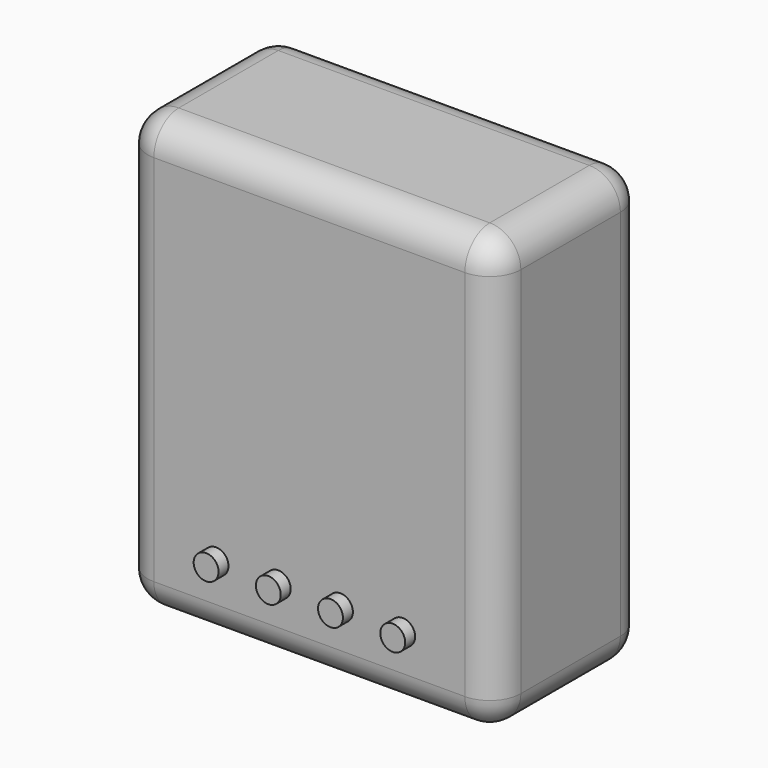
from build123d import *

# Parameters (mm, degrees)
F0_W     = 60
F0_H     = 70
F0_R     = 2
F1_DEPTH = 30
F2_DEPTH = 32
F3_R     = 5


with BuildPart() as f1:
    # F0 (on Front) → F1 (new body)
    with BuildSketch(Plane.XZ):
        Rectangle(F0_W, F0_H)
        with Locations((-15, -23.889102)):
            Circle(F0_R, mode=Mode.SUBTRACT)
        with Locations((-5, -23.889102)):
            Circle(F0_R, mode=Mode.SUBTRACT)
        with Locations((5, -23.889102)):
            Circle(F0_R, mode=Mode.SUBTRACT)
        with Locations((15, -24.129193)):
            Circle(F0_R, mode=Mode.SUBTRACT)
    extrude(amount=F1_DEPTH)

    # F0 (on Front) → F2 (join)
    with BuildSketch(Plane.XZ):
        with Locations((15, -24.129193)):
            Circle(F0_R)
        with Locations((5, -23.889102)):
            Circle(F0_R)
        with Locations((-5, -23.889102)):
            Circle(F0_R)
        with Locations((-15, -23.889102)):
            Circle(F0_R)
    extrude(amount=F2_DEPTH)

    # F3
    f3_edges = [f1.edges().sort_by_distance(p)[0] for p in [
        (-30, -15, 35),
        (0, 0, 35),
        (0, -30, 35),
        (30, -15, 35),
        (30, -30, 0),
        (-30, -30, 0),
        (-30, 0, 0),
        (30, 0, 0),
        (0, 0, -35),
        (0, -30, -35),
        (30, -15, -35),
        (-30, -15, -35),
    ]]
    fillet(f3_edges, radius=F3_R)


solid = f1.part
